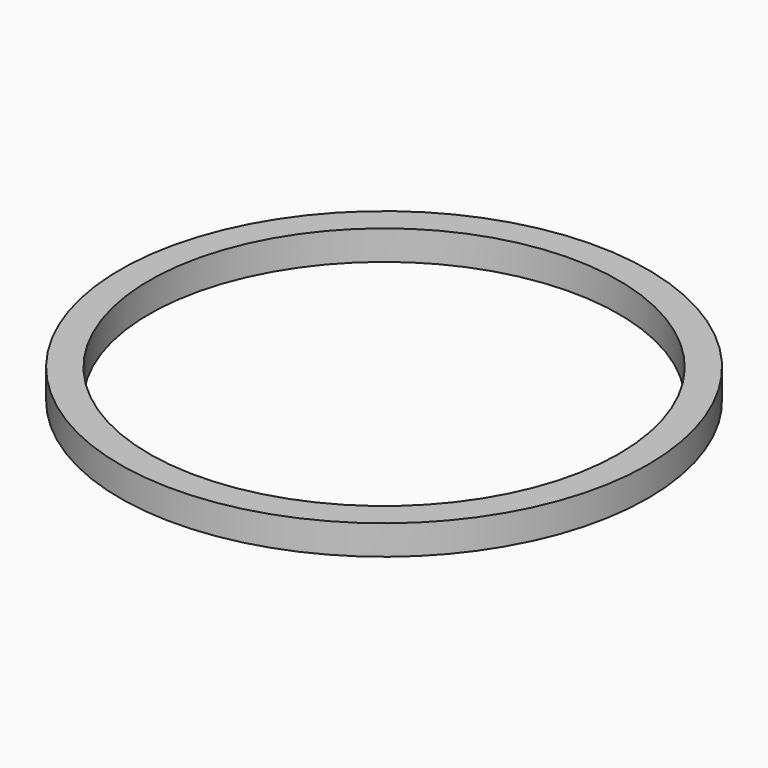
from build123d import *

# Parameters (mm, degrees)
F0_R     = 67
F0_R_2   = 63.875
F0_R_3   = 63.125
F0_R_4   = 59.6
F1_DEPTH = 3.75


with BuildPart() as f1:
    # F0 (on Top) → F1 (new body, symmetric)
    with BuildSketch(Plane.XY):
        Circle(F0_R)
        Circle(F0_R_2, mode=Mode.SUBTRACT)
        Circle(F0_R_2)
        Circle(F0_R_3, mode=Mode.SUBTRACT)
        Circle(F0_R_3)
        Circle(F0_R_4, mode=Mode.SUBTRACT)
    extrude(amount=F1_DEPTH, both=True)


solid = f1.part
